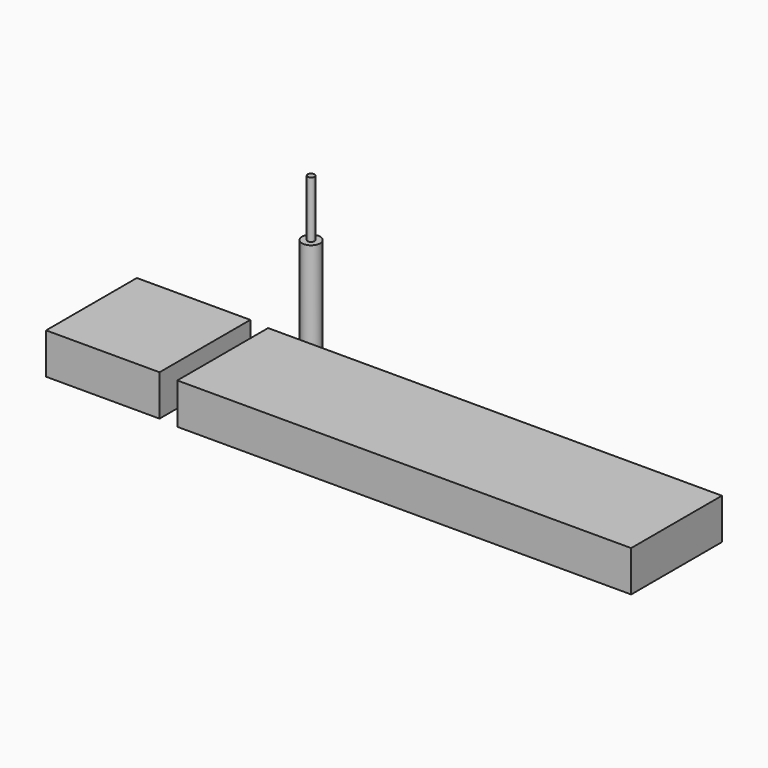
from build123d import *

# Parameters (mm, degrees)
F0_R     = 4
F1_DEPTH = 50
F0_W     = 200
F0_H     = 50
F0_W_2   = 50
F2_DEPTH = 18
F3_R     = 1.5
F4_DEPTH = 25


with BuildPart() as f1:
    # F0 (on Top) → F1 (new body)
    with BuildSketch(Plane.XY):
        with Locations((-20.824478, 36.586671)):
            Circle(F0_R)
    extrude(amount=F1_DEPTH)

    # F3 (on face) → F4 (join)
    with BuildSketch(Plane.XY.offset(50)):
        with Locations((-20.824478, 36.586671)):
            Circle(F3_R)
    extrude(amount=F4_DEPTH)


with BuildPart() as f2:
    # F0 (on Top) → F2 (new body)
    with BuildSketch(Plane.XY):
        with Locations((70.220298, -0.913329)):
            Rectangle(F0_W, F0_H)
        with Locations((-63.361793, 0.019506)):
            Rectangle(F0_W_2, F0_H)
    extrude(amount=F2_DEPTH)


solid = Compound([f1.part, f2.part])
